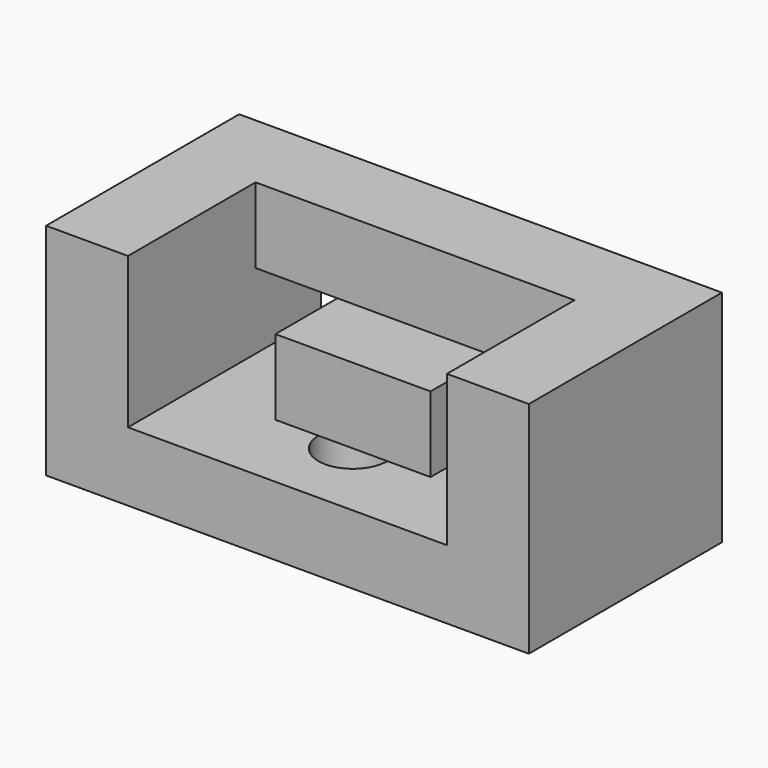
from build123d import *

# Parameters (mm, degrees)
F0_W      = 2844.8
F0_H      = 1295.4
F1_DEPTH  = 1447.8
F2_W      = 482.6
F2_H      = 444.5
F4_DEPTH  = 965.2
F5_W      = 482.6
F5_H      = 444.5
F6_DEPTH  = 508
F8_DEPTH  = 25.4
F9_W      = 914.4
F9_H      = 444.5
F10_DEPTH = 482.6
F12_DEPTH = 406.4


with BuildPart() as f1:
    # F0 (on Front) → F1 (new body)
    with BuildSketch(Plane.XZ):
        with Locations((1422.4, 647.7)):
            Rectangle(F0_W, F0_H)
    extrude(amount=F1_DEPTH)

    # F2 (on face) → F4 (cut)
    with BuildSketch(Plane.XZ.offset(1447.8)):
        Polygon((2362.2, 1295.4), (482.6, 1295.4), (482.6, 850.9), (965.2, 850.9), (1879.6, 850.9), (2362.2, 850.9), align=None)
        Polygon((965.2, 850.9), (482.6, 850.9), (482.6, 406.4), (869.3156242371, 406.4), (965.2, 406.4), align=None)
        with Locations((2120.9, 628.65)):
            Rectangle(F2_W, F2_H)
    extrude(amount=-F4_DEPTH, mode=Mode.SUBTRACT)

    # F5 (on face) → F6 (cut)
    with BuildSketch(Plane.XZ.offset(482.6)):
        with Locations((723.9, 628.65)):
            Rectangle(F5_W, F5_H)
        with Locations((2120.9, 628.65)):
            Rectangle(F5_W, F5_H)
    extrude(amount=-F6_DEPTH, mode=Mode.SUBTRACT)

    # F7 (on face) → F8 (cut)
    with BuildSketch(Plane.XZ.offset(1447.8)):
        Polygon((482.6, 406.4), (482.6, 1295.4), (0, 1295.4), (0, 0), (2844.8, 0), (2844.8, 1295.4), (2362.2, 1295.4), (2362.2, 406.4), (1879.6, 406.4), (1879.6, 850.9), (965.2, 850.9), (965.2, 406.4), align=None)
    extrude(amount=-F8_DEPTH, mode=Mode.SUBTRACT)

    # F9 (on face) → F10 (cut)
    with BuildSketch(Plane.XZ.offset(1422.4)):
        with Locations((1422.4, 628.65)):
            Rectangle(F9_W, F9_H)
    extrude(amount=-F10_DEPTH, mode=Mode.SUBTRACT)

    # F11 (on face) → F12 (cut)
    with BuildSketch(Plane(origin=(0, 0, 0), x_dir=(1, 0, 0), z_dir=(0, 0, -1))):
        with BuildLine():
            ThreePointArc((1625.6, 939.8), (1566.0840979371, 1083.4840979371), (1422.4, 1143))
            ThreePointArc((1422.4, 1143), (1278.7159020629, 796.1159020629), (1625.6, 939.8))
        make_face()
    extrude(amount=-F12_DEPTH, mode=Mode.SUBTRACT)


solid = f1.part
